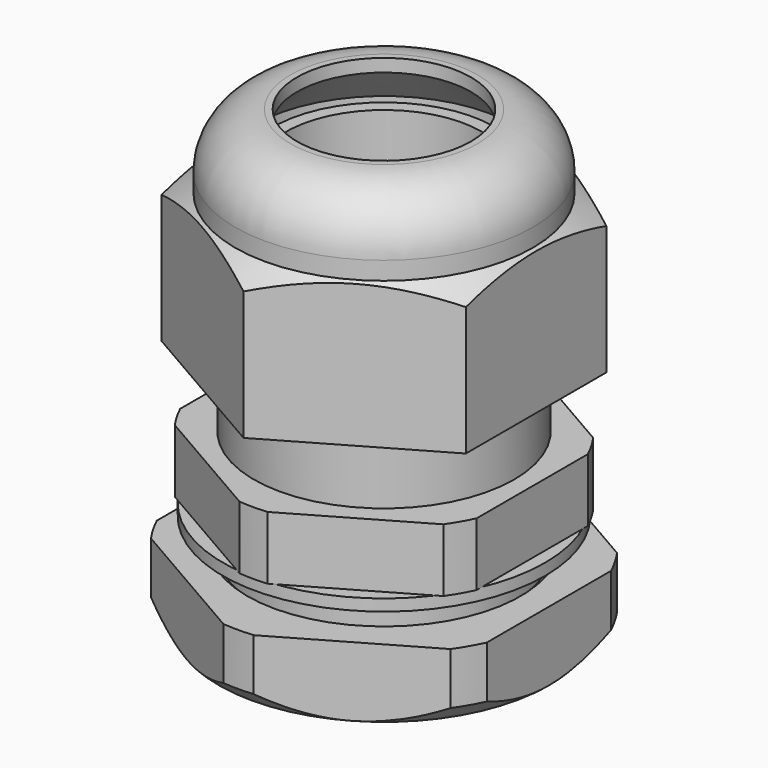
from build123d import *

# Parameters (mm, degrees)
SKETCH001_R     = 14
POCKET_DEPTH    = 14.401
SKETCH003_R     = 20
POCKET001_DEPTH = 16.901
SKETCH005_R     = 18.729211
POCKET002_DEPTH = 5.381
CHAMFER_SIZE    = 0.5
SKETCH006_R     = 12.5
SKETCH006_R_2   = 10.1
PAD_DEPTH       = 0.9


with BuildPart() as body:
    # Sketch → Revolution (revolve)
    with BuildSketch(Plane.XZ):
        Polygon((7.6, -9.5), (7.6, 22.9), (8.6, 22.9), (10.1, 16.9), (10.1, 4.9), (12.7, 4.9), (12.7, 0), (10.1, 0), (10.1, -8.5), (9.1, -9.5), align=None)
    revolve(axis=Axis((0, 0, 0), (0, 0, 1)))

    # Sketch001 (on Face2 of Revolution) → Pocket (cut, through all)
    with BuildSketch(Plane(origin=(0, 0, 4.9), x_dir=(-1, 0, 0), z_dir=(0, 0, 1))):
        Circle(SKETCH001_R)
        Polygon((0, 13.279056), (-11.5, 6.639528), (-11.5, -6.639528), (0, -13.279056), (11.5, -6.639528), (11.5, 6.639528), align=None, mode=Mode.SUBTRACT)
    extrude(amount=-POCKET_DEPTH, mode=Mode.SUBTRACT)


with BuildPart() as body001:
    # Sketch002 → Revolution001 (revolve)
    with BuildSketch(Plane.XZ):
        with BuildLine():
            Line((10.1, 8), (14, 8))
            Line((14, 8), (14, 17.785492))
            Line((14, 17.785492), (11.55, 19.2))
            Line((11.55, 19.2), (11.55, 20.6))
            ThreePointArc((11.55, 20.6), (10.290559, 23.640559), (7.25, 24.9))
            Line((6.75, 24.9), (7.25, 24.9))
            Line((6.75, 23.9), (6.75, 24.9))
            Line((10.1, 20.55), (6.75, 23.9))
            Line((10.1, 8), (10.1, 20.55))
        make_face()
    revolve(axis=Axis((0, 0, 0), (0, 0, 1)))

    # Sketch003 (on Face1 of Revolution001) → Pocket001 (cut, through all)
    with BuildSketch(Plane(origin=(0, 0, 8), x_dir=(1, 0, 0), z_dir=(0, 0, -1))):
        Circle(SKETCH003_R)
        Polygon((0, 13.625466), (-11.8, 6.812733), (-11.8, -6.812733), (0, -13.625466), (11.8, -6.812733), (11.8, 6.812733), align=None, mode=Mode.SUBTRACT)
    extrude(amount=-POCKET001_DEPTH, mode=Mode.SUBTRACT)


with BuildPart() as body001_1:
    # Body001 placement: moved
    add(body001.part.moved(Location((0, 0, 2))))


with BuildPart() as body002:
    # Sketch004 → Revolution002 (revolve)
    with BuildSketch(Plane.YZ):
        Polygon((10.1, 0), (10.1, -5.38), (12.8, -5.38), (14.15, -4.03), (14.15, 0), align=None)
    revolve(axis=Axis((0, 0, 0), (0, 0, 1)))

    # Sketch005 (on Face2 of Revolution002) → Pocket002 (cut, through all)
    with BuildSketch(Plane.YX.offset(5.38)):
        Circle(SKETCH005_R)
        Polygon((14.780167, 0), (7.390083, 12.8), (-7.390083, 12.8), (-14.780167, 0), (-7.390083, -12.8), (7.390083, -12.8), align=None, mode=Mode.SUBTRACT)
    extrude(amount=-POCKET002_DEPTH, mode=Mode.SUBTRACT)

    # Chamfer
    chamfer_edges = [body002.edges().sort_by_distance(p)[0] for p in [
        (0, -10.1, -5.38),
        (0, -10.1, 0),
    ]]
    chamfer(chamfer_edges, length=CHAMFER_SIZE)


with BuildPart() as body002_1:
    # Body002 placement: moved
    add(body002.part.moved(Location((0, 0, -2.9))))


with BuildPart() as body003:
    # Sketch006 → Pad (new body)
    with BuildSketch(Plane.XY):
        Circle(SKETCH006_R)
        Circle(SKETCH006_R_2, mode=Mode.SUBTRACT)
    extrude(amount=-PAD_DEPTH)


solid = Compound([body.part, body001_1.part, body002_1.part, body003.part])
